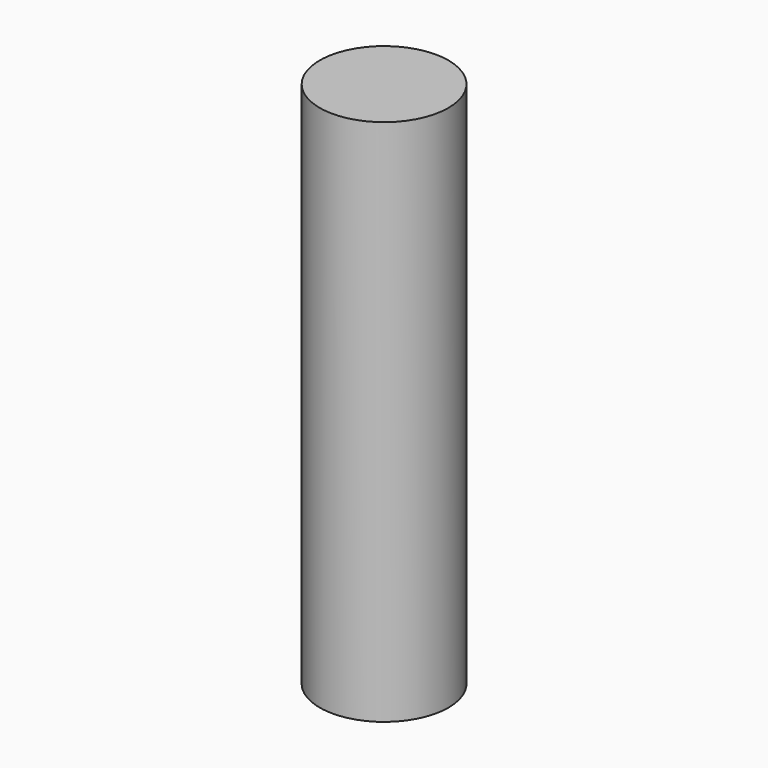
from build123d import *

# Parameters (mm, degrees)
CYLINDER_R     = 1.8288
CYLINDER_DEPTH = 15


with BuildPart() as part:
    # Cylinder → Cylinder (new body)
    with BuildSketch(Plane.XY.offset(-2.5)):
        Circle(CYLINDER_R)
    extrude(amount=CYLINDER_DEPTH)


solid = part.part
